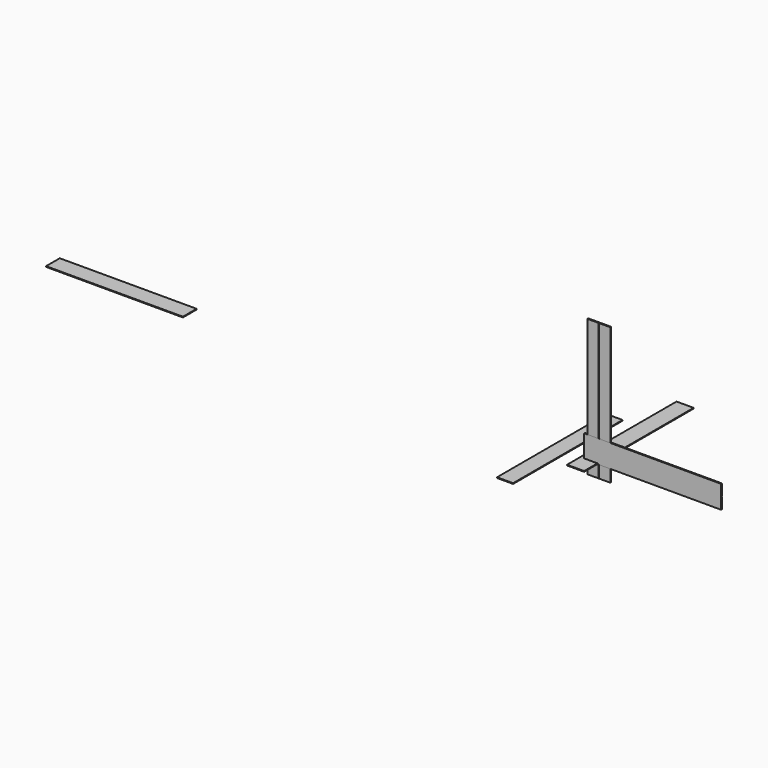
from build123d import *

# Parameters (mm, degrees)
F0_W      = 304.8
F0_H      = 2438.4
F1_DEPTH  = 12.7
F2_W      = 2438.4
F2_H      = 304.8
F3_DEPTH  = 12.7
F4_W      = 406.4
F4_H      = 2438.4
F5_DEPTH  = 19.05
F6_W      = 12.7
F6_H      = 2438.4
F7_DEPTH  = 9.525
F8_W      = 2438.4
F8_H      = 196.85
F8_H_2    = 12.7
F9_DEPTH  = 19.05
F10_DEPTH = 9.525
F11_W     = 285.75
F11_H     = 2438.4
F12_DEPTH = 12.7


with BuildPart() as f1:
    # F0 (on Top) → F1 (new body)
    with BuildSketch(Plane.XY):
        with Locations((-159.5789045095, 903.038151103)):
            Rectangle(F0_W, F0_H)
    extrude(amount=F1_DEPTH)


with BuildPart() as f3:
    # F2 (on Top) → F3 (new body)
    with BuildSketch(Plane.XY):
        with Locations((-8491.1774787435, -19.6189805865)):
            Rectangle(F2_W, F2_H)
    extrude(amount=F3_DEPTH)


with BuildPart() as f5:
    # F4 (on Front) → F5 (new body)
    with BuildSketch(Plane.XZ):
        with Locations((17.7923515439, 1001.4546515647)):
            Rectangle(F4_W, F4_H)
    extrude(amount=F5_DEPTH)

    # F6 (on face) → F7 (cut)
    with BuildSketch(Plane.XZ.offset(19.05)):
        with Locations((17.7923515439, 1001.4546515647)):
            Rectangle(F6_W, F6_H)
    extrude(amount=-F7_DEPTH, mode=Mode.SUBTRACT)


with BuildPart() as f9:
    # F8 (on Front) → F9 (new body)
    with BuildSketch(Plane.XZ):
        with Locations((975.3959287659, 307.975)):
            Rectangle(F8_W, F8_H)
        with Locations((975.3959287659, 203.2)):
            Rectangle(F8_W, F8_H_2)
        with Locations((975.3959287659, 98.425)):
            Rectangle(F8_W, F8_H)
    extrude(amount=F9_DEPTH)

    # F8 (on Front) → F10 (cut)
    with BuildSketch(Plane.XZ):
        with Locations((975.3959287659, 203.2)):
            Rectangle(F8_W, F8_H_2)
    extrude(amount=F10_DEPTH, mode=Mode.SUBTRACT)


with BuildPart() as f12:
    # F11 (on Top) → F12 (new body)
    with BuildSketch(Plane.XY):
        with Locations((-693.7926063842, -0.0663548708)):
            Rectangle(F11_W, F11_H)
    extrude(amount=F12_DEPTH)


solid = Compound([f1.part, f3.part, f5.part, f9.part, f12.part])
